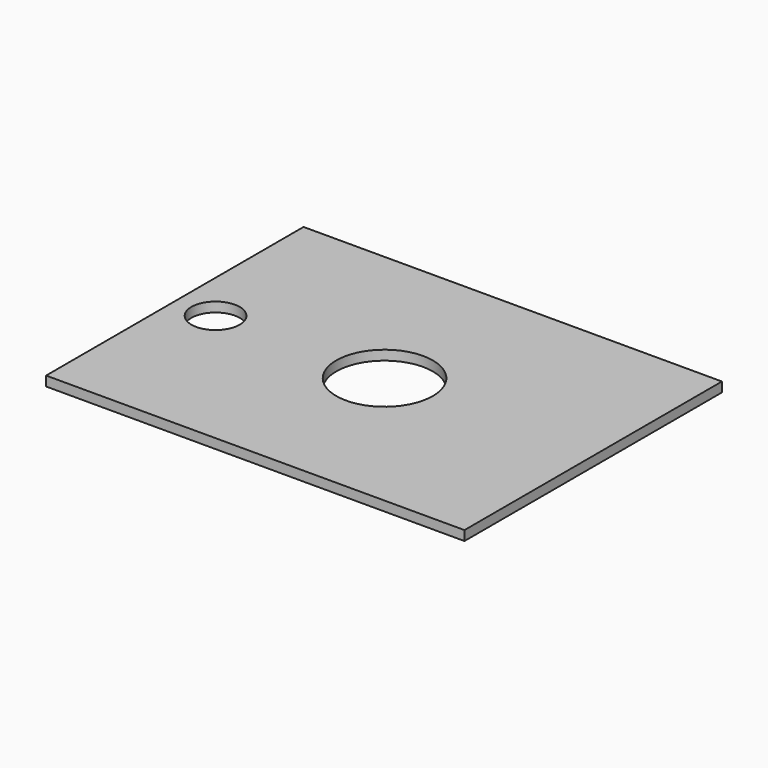
from build123d import *

# Parameters (mm, degrees)
F0_W     = 330.2
F0_H     = 254
F1_DEPTH = 7.62
F2_R     = 38.1
F4_DEPTH = 7.621
F3_R     = 19.05
F5_DEPTH = 7.621


with BuildPart() as f1:
    # F0 (on Top) → F1 (new body)
    with BuildSketch(Plane.XY):
        with Locations((-0.02661, -0.518168)):
            Rectangle(F0_W, F0_H)
    extrude(amount=F1_DEPTH)

    # F2 (on face) → F4 (cut, through all)
    with BuildSketch(Plane.XY.offset(7.62)):
        Circle(F2_R)
    extrude(amount=-F4_DEPTH, mode=Mode.SUBTRACT)

    # F3 (on face) → F5 (cut, through all)
    with BuildSketch(Plane.XY.offset(7.62)):
        with Locations((-133.37661, 0)):
            Circle(F3_R)
    extrude(amount=-F5_DEPTH, mode=Mode.SUBTRACT)


solid = f1.part
